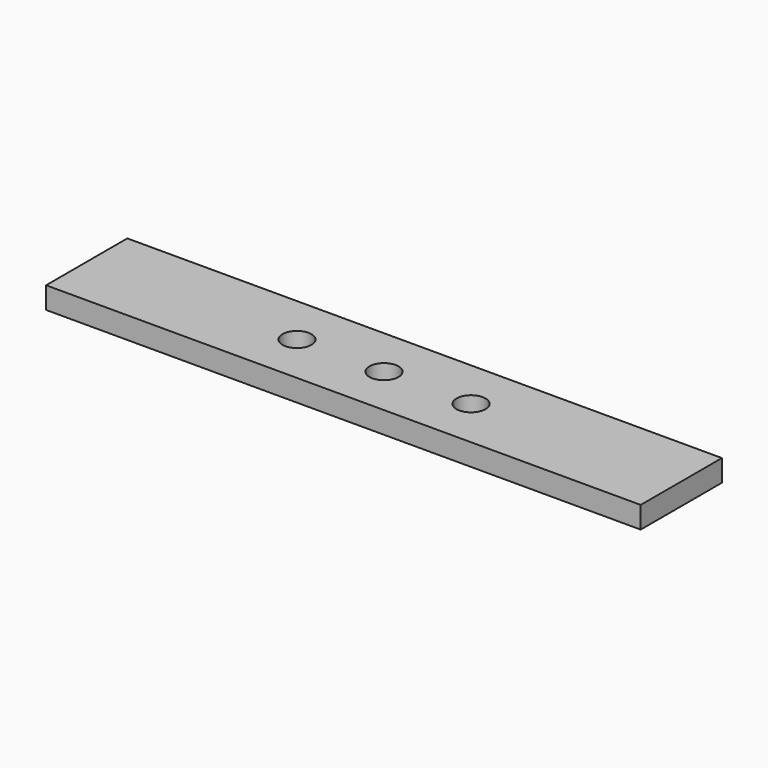
from build123d import *

# Parameters (mm, degrees)
F0_W     = 520.7
F0_H     = 88.9
F0_R     = 12.7
F1_DEPTH = 19.05


with BuildPart() as f1:
    # F0 (on Top) → F1 (new body)
    with BuildSketch(Plane.XY):
        with Locations((-1507.387892, -2580.956636)):
            Rectangle(F0_W, F0_H)
        with Locations((-1583.587892, -2580.956636)):
            Circle(F0_R, mode=Mode.SUBTRACT)
        with Locations((-1507.387892, -2580.956636)):
            Circle(F0_R, mode=Mode.SUBTRACT)
        with Locations((-1431.187892, -2580.956636)):
            Circle(F0_R, mode=Mode.SUBTRACT)
    extrude(amount=F1_DEPTH)


solid = f1.part
